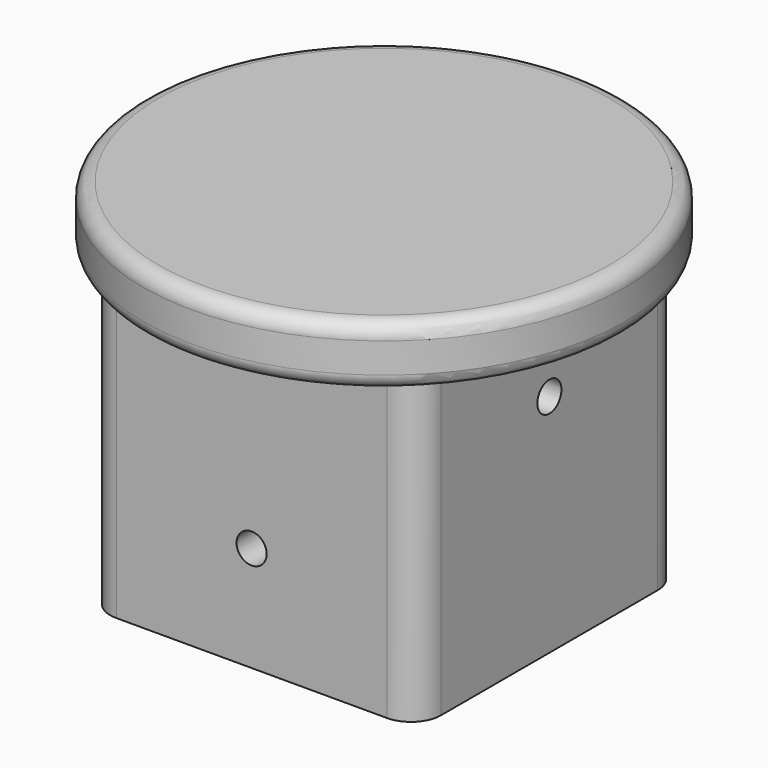
from build123d import *

# Parameters (mm, degrees)
CYLINDER019_R     = 1
CYLINDER019_DEPTH = 40
CYLINDER018_R     = 1
CYLINDER018_DEPTH = 40
BOX011_W          = 22
BOX011_H          = 22
BOX011_DEPTH      = 20
FILLET004_R       = 2
CYLINDER017_R     = 16
CYLINDER017_DEPTH = 4
FILLET003_R       = 1


with BuildPart() as screw_hole_cylinder003:
    # Cylinder019 → Cylinder019 (new body)
    with BuildSketch(Plane(origin=(0, 20, 7), x_dir=(0, 0, -1), z_dir=(0, -1, 0))):
        Circle(CYLINDER019_R)
    extrude(amount=CYLINDER019_DEPTH)


with BuildPart() as obj1:
    # Cylinder018 → Cylinder018 (new body)
    with BuildSketch(Plane(origin=(-20, 0, 15), x_dir=(0, 0, -1), z_dir=(1, 0, 0))):
        Circle(CYLINDER018_R)
    extrude(amount=CYLINDER018_DEPTH)

    # Fusion018: union screw hole cylinder003
    add(screw_hole_cylinder003.part)


with BuildPart() as fillet004:
    # Box011 → Box011 (new body)
    with BuildSketch(Plane(origin=(-11, -11, 0), x_dir=(1, 0, 0), z_dir=(0, 0, 1))):
        with Locations((11, 11)):
            Rectangle(BOX011_W, BOX011_H)
    extrude(amount=BOX011_DEPTH)

    # Fillet004
    fillet004_edges = [fillet004.edges().sort_by_distance(p)[0] for p in [
        (-11, -11, 10),
        (-11, 11, 10),
        (11, -11, 10),
        (11, 11, 10),
    ]]
    fillet(fillet004_edges, radius=FILLET004_R)


with BuildPart() as top_cut:
    # Cylinder017 → Cylinder017 (new body)
    with BuildSketch(Plane.XY.offset(20)):
        Circle(CYLINDER017_R)
    extrude(amount=CYLINDER017_DEPTH)

    # Fillet003
    fillet003_edges = [top_cut.edges().sort_by_distance(p)[0] for p in [
        (-16, 0, 24),
        (-16, 0, 20),
    ]]
    fillet(fillet003_edges, radius=FILLET003_R)

    # Fusion017: union Fillet004
    add(fillet004.part)

    # Cut005: cut obj1
    add(obj1.part, mode=Mode.SUBTRACT)


solid = top_cut.part
